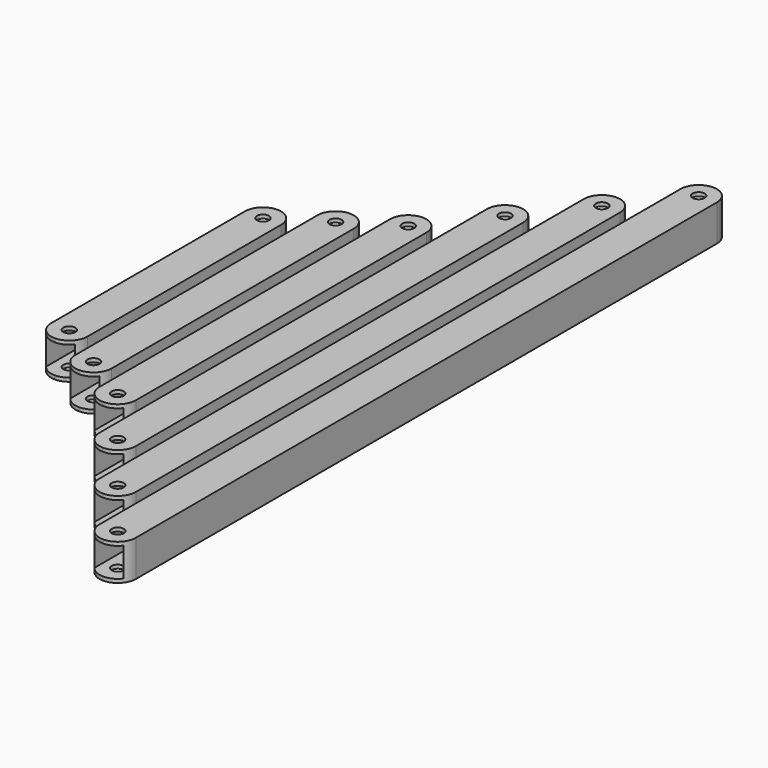
from build123d import *

# Parameters (mm, degrees)
F0_W     = 15
F0_H     = 15
F0_W_2   = 12
F0_H_2   = 12
F1_DEPTH = 57.5
F2_DEPTH = 70
F3_DEPTH = 82.5
F4_DEPTH = 107.5
F5_DEPTH = 132.5
F6_DEPTH = 157.5
F7_R     = 2.5
F8_DEPTH = 15


with BuildPart() as f1:
    # F0 (on Front) → F1 (new body, symmetric)
    with BuildSketch(Plane.XZ):
        with Locations((-50, 0)):
            Rectangle(F0_W, F0_H)
        with Locations((-50, 0)):
            Rectangle(F0_W_2, F0_H_2, mode=Mode.SUBTRACT)
    extrude(amount=F1_DEPTH, both=True)


with BuildPart() as f2:
    # F0 (on Front) → F2 (new body, symmetric)
    with BuildSketch(Plane.XZ):
        with Locations((-30, 0)):
            Rectangle(F0_W, F0_H)
        with Locations((-30, 0)):
            Rectangle(F0_W_2, F0_H_2, mode=Mode.SUBTRACT)
    extrude(amount=F2_DEPTH, both=True)


with BuildPart() as f3:
    # F0 (on Front) → F3 (new body, symmetric)
    with BuildSketch(Plane.XZ):
        with Locations((-10, 0)):
            Rectangle(F0_W, F0_H)
        with Locations((-10, 0)):
            Rectangle(F0_W_2, F0_H_2, mode=Mode.SUBTRACT)
    extrude(amount=F3_DEPTH, both=True)


with BuildPart() as f4:
    # F0 (on Front) → F4 (new body, symmetric)
    with BuildSketch(Plane.XZ):
        with Locations((10, 0)):
            Rectangle(F0_W, F0_H)
        with Locations((10, 0)):
            Rectangle(F0_W_2, F0_H_2, mode=Mode.SUBTRACT)
    extrude(amount=F4_DEPTH, both=True)


with BuildPart() as f5:
    # F0 (on Front) → F5 (new body, symmetric)
    with BuildSketch(Plane.XZ):
        with Locations((30, 0)):
            Rectangle(F0_W, F0_H)
        with Locations((30, 0)):
            Rectangle(F0_W_2, F0_H_2, mode=Mode.SUBTRACT)
    extrude(amount=F5_DEPTH, both=True)


with BuildPart() as f6:
    # F0 (on Front) → F6 (new body, symmetric)
    with BuildSketch(Plane.XZ):
        with Locations((50, 0)):
            Rectangle(F0_W, F0_H)
        with Locations((50, 0)):
            Rectangle(F0_W_2, F0_H_2, mode=Mode.SUBTRACT)
    extrude(amount=F6_DEPTH, both=True)


with BuildPart() as f8_tool:
    # F7 (on face) → F8 (new body, through all)
    with BuildSketch(Plane.XY.offset(7.5)):
        with BuildLine():
            Line((57.5, -157.5), (57.5, -150))
            ThreePointArc((57.5, -150), (55.303301, -155.303301), (50, -157.5))
            Line((50, -157.5), (57.5, -157.5))
        make_face()
        with BuildLine():
            ThreePointArc((50, -157.5), (44.696699, -155.303301), (42.5, -150))
            Line((42.5, -150), (42.5, -157.5))
            Line((42.5, -157.5), (50, -157.5))
        make_face()
        with Locations((30, -125)):
            Circle(F7_R)
        with BuildLine():
            Line((37.5, -132.5), (37.5, -125))
            ThreePointArc((37.5, -125), (35.303301, -130.303301), (30, -132.5))
            Line((30, -132.5), (37.5, -132.5))
        make_face()
        with Locations((10, -100)):
            Circle(F7_R)
        with BuildLine():
            Line((17.5, -107.5), (17.5, -100))
            ThreePointArc((17.5, -100), (15.303301, -105.303301), (10, -107.5))
            Line((10, -107.5), (17.5, -107.5))
        make_face()
        with BuildLine():
            ThreePointArc((10, -107.5), (4.696699, -105.303301), (2.5, -100))
            Line((2.5, -100), (2.5, -107.5))
            Line((2.5, -107.5), (10, -107.5))
        make_face()
        with Locations((-30, -62.5)):
            Circle(F7_R)
        with Locations((-50, -50)):
            Circle(F7_R)
        with Locations((-10, -75)):
            Circle(F7_R)
        with BuildLine():
            ThreePointArc((-10, -82.5), (-15.303301, -80.303301), (-17.5, -75))
            Line((-17.5, -75), (-17.5, -82.5))
            Line((-17.5, -82.5), (-10, -82.5))
        make_face()
        with BuildLine():
            Line((-2.5, -82.5), (-2.5, -75))
            ThreePointArc((-2.5, -75), (-4.696699, -80.303301), (-10, -82.5))
            Line((-10, -82.5), (-2.5, -82.5))
        make_face()
        with BuildLine():
            Line((-22.5, -70), (-22.5, -62.5))
            ThreePointArc((-22.5, -62.5), (-24.696699, -67.803301), (-30, -70))
            Line((-30, -70), (-22.5, -70))
        make_face()
        with BuildLine():
            ThreePointArc((-30, -70), (-35.303301, -67.803301), (-37.5, -62.5))
            Line((-37.5, -62.5), (-37.5, -70))
            Line((-37.5, -70), (-30, -70))
        make_face()
        with BuildLine():
            Line((-42.5, -57.5), (-42.5, -50))
            ThreePointArc((-42.5, -50), (-44.696699, -55.303301), (-50, -57.5))
            Line((-50, -57.5), (-42.5, -57.5))
        make_face()
        with BuildLine():
            ThreePointArc((-50, -57.5), (-55.303301, -55.303301), (-57.5, -50))
            Line((-57.5, -50), (-57.5, -57.5))
            Line((-57.5, -57.5), (-50, -57.5))
        make_face()
        with BuildLine():
            ThreePointArc((-57.5, 50), (-55.303301, 55.303301), (-50, 57.5))
            Line((-50, 57.5), (-57.5, 57.5))
            Line((-57.5, 57.5), (-57.5, 50))
        make_face()
        with Locations((-50, 50)):
            Circle(F7_R)
        with BuildLine():
            Line((-42.5, 50), (-42.5, 57.5))
            Line((-42.5, 57.5), (-50, 57.5))
            ThreePointArc((-50, 57.5), (-44.696699, 55.303301), (-42.5, 50))
        make_face()
        with BuildLine():
            ThreePointArc((-37.5, 62.5), (-35.303301, 67.803301), (-30, 70))
            Line((-30, 70), (-37.5, 70))
            Line((-37.5, 70), (-37.5, 62.5))
        make_face()
        with Locations((-30, 62.5)):
            Circle(F7_R)
        with BuildLine():
            Line((-22.5, 62.5), (-22.5, 70))
            Line((-22.5, 70), (-30, 70))
            ThreePointArc((-30, 70), (-24.696699, 67.803301), (-22.5, 62.5))
        make_face()
        with BuildLine():
            ThreePointArc((-17.5, 75), (-15.303301, 80.303301), (-10, 82.5))
            Line((-10, 82.5), (-17.5, 82.5))
            Line((-17.5, 82.5), (-17.5, 75))
        make_face()
        with BuildLine():
            Line((-2.5, 75), (-2.5, 82.5))
            Line((-2.5, 82.5), (-10, 82.5))
            ThreePointArc((-10, 82.5), (-4.696699, 80.303301), (-2.5, 75))
        make_face()
        with Locations((-10, 75)):
            Circle(F7_R)
        with BuildLine():
            ThreePointArc((2.5, 100), (4.696699, 105.303301), (10, 107.5))
            Line((10, 107.5), (2.5, 107.5))
            Line((2.5, 107.5), (2.5, 100))
        make_face()
        with Locations((10, 100)):
            Circle(F7_R)
        with BuildLine():
            Line((17.5, 100), (17.5, 107.5))
            Line((17.5, 107.5), (10, 107.5))
            ThreePointArc((10, 107.5), (15.303301, 105.303301), (17.5, 100))
        make_face()
        with BuildLine():
            ThreePointArc((22.5, 125), (24.696699, 130.303301), (30, 132.5))
            Line((30, 132.5), (22.5, 132.5))
            Line((22.5, 132.5), (22.5, 125))
        make_face()
        with Locations((30, 125)):
            Circle(F7_R)
        with BuildLine():
            Line((37.5, 125), (37.5, 132.5))
            Line((37.5, 132.5), (30, 132.5))
            ThreePointArc((30, 132.5), (35.303301, 130.303301), (37.5, 125))
        make_face()
        with BuildLine():
            ThreePointArc((42.5, 150), (44.696699, 155.303301), (50, 157.5))
            Line((50, 157.5), (42.5, 157.5))
            Line((42.5, 157.5), (42.5, 150))
        make_face()
        with BuildLine():
            Line((57.5, 150), (57.5, 157.5))
            Line((57.5, 157.5), (50, 157.5))
            ThreePointArc((50, 157.5), (55.303301, 155.303301), (57.5, 150))
        make_face()
        with Locations((50, -150)):
            Circle(F7_R)
        with Locations((50, 150)):
            Circle(F7_R)
        with BuildLine():
            ThreePointArc((30, -132.5), (24.696699, -130.303301), (22.5, -125))
            Line((22.5, -125), (22.5, -132.5))
            Line((22.5, -132.5), (30, -132.5))
        make_face()
    extrude(amount=-F8_DEPTH)


with BuildPart() as f1_1:
    add(f1.part)

    # F8: cut by f8_tool
    add(f8_tool.part, mode=Mode.SUBTRACT)


with BuildPart() as f2_1:
    add(f2.part)

    # F8: cut by f8_tool
    add(f8_tool.part, mode=Mode.SUBTRACT)


with BuildPart() as f3_1:
    add(f3.part)

    # F8: cut by f8_tool
    add(f8_tool.part, mode=Mode.SUBTRACT)


with BuildPart() as f4_1:
    add(f4.part)

    # F8: cut by f8_tool
    add(f8_tool.part, mode=Mode.SUBTRACT)


with BuildPart() as f5_1:
    add(f5.part)

    # F8: cut by f8_tool
    add(f8_tool.part, mode=Mode.SUBTRACT)


with BuildPart() as f6_1:
    add(f6.part)

    # F8: cut by f8_tool
    add(f8_tool.part, mode=Mode.SUBTRACT)


solid = Compound([f1_1.part, f2_1.part, f3_1.part, f4_1.part, f5_1.part, f6_1.part])
